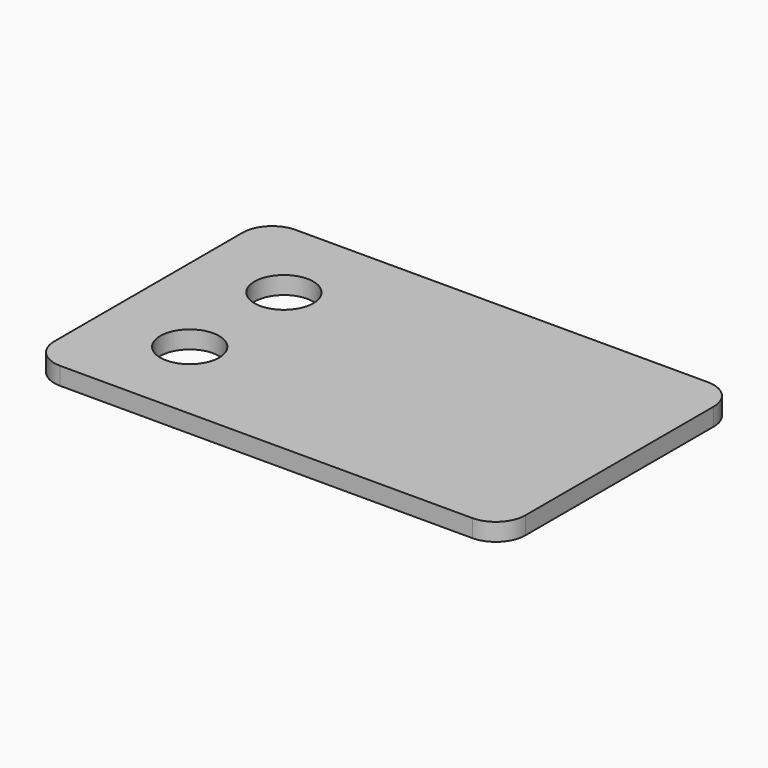
from build123d import *

# Parameters (mm, degrees)
F0_W     = 80
F0_H     = 50
F0_R     = 5
F1_DEPTH = 3
F2_R     = 5


with BuildPart() as f1:
    # F0 (on Top) → F1 (new body)
    with BuildSketch(Plane.XY):
        Rectangle(F0_W, F0_H)
        with Locations((-25, -10)):
            Circle(F0_R, mode=Mode.SUBTRACT)
        with Locations((-25, 10)):
            Circle(F0_R, mode=Mode.SUBTRACT)
    extrude(amount=F1_DEPTH)

    # F2
    f2_edges = [f1.edges().sort_by_distance(p)[0] for p in [
        (-40, 25, 1.5),
        (-40, -25, 1.5),
        (40, 25, 1.5),
        (40, -25, 1.5),
    ]]
    fillet(f2_edges, radius=F2_R)


solid = f1.part
